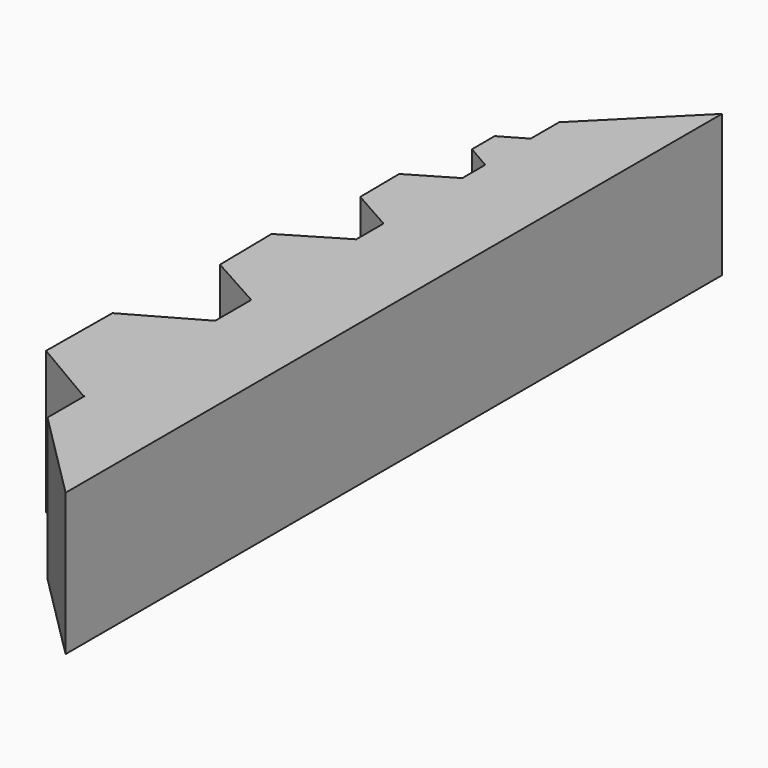
from build123d import *

# Parameters (mm, degrees)
F1_DEPTH = 100


with BuildPart() as f1:
    # F0 (on Top) → F1 (new body)
    with BuildSketch(Plane.XY):
        Polygon((513.63961, 63.63961), (450, 0), (450, -25), (467.320508, -35), (467.320508, -55), (450, -65), (450, -85.550674), (479.830233, -102.38872), (480.166933, -137.0281), (450.336699, -154.63938), (450, -154.449326), (450, -179.204377), (489.648216, -201.307126), (490.342739, -247.489925), (450.694523, -271.1828), (450, -270.795623), (450, -302.53674), (450.476343, -302.266938), (500.23647, -331.545994), (499.760127, -389.279056), (450, -417.46326), (450, -450), (513.63961, -513.63961), align=None)
        Polygon((467.320508, -35), (450, -25), (450, -65), (467.320508, -55), align=None)
        Polygon((450, -65), (450, -25), (432.679492, -35), (432.679492, -55), align=None)
        Polygon((450, -154.449326), (450, -85.550674), (449.663301, -85.36062), (419.833067, -102.9719), (420.169767, -137.61128), align=None)
        Polygon((479.830233, -102.38872), (450, -85.550674), (450, -154.449326), (450.336699, -154.63938), (480.166933, -137.0281), align=None)
        Polygon((489.648216, -201.307126), (450, -179.204377), (450, -270.795623), (450.694523, -271.1828), (490.342739, -247.489925), align=None)
        Polygon((450, -270.795623), (450, -179.204377), (449.305477, -178.8172), (409.657261, -202.510075), (410.351784, -248.692874), align=None)
        Polygon((449.523657, -417.733062), (450, -417.46326), (450, -302.53674), (400.239873, -330.720944), (399.76353, -388.454006), align=None)
        Polygon((450, -302.53674), (450, -417.46326), (499.760127, -389.279056), (500.23647, -331.545994), (450.476343, -302.266938), align=None)
    extrude(amount=F1_DEPTH)


solid = f1.part
